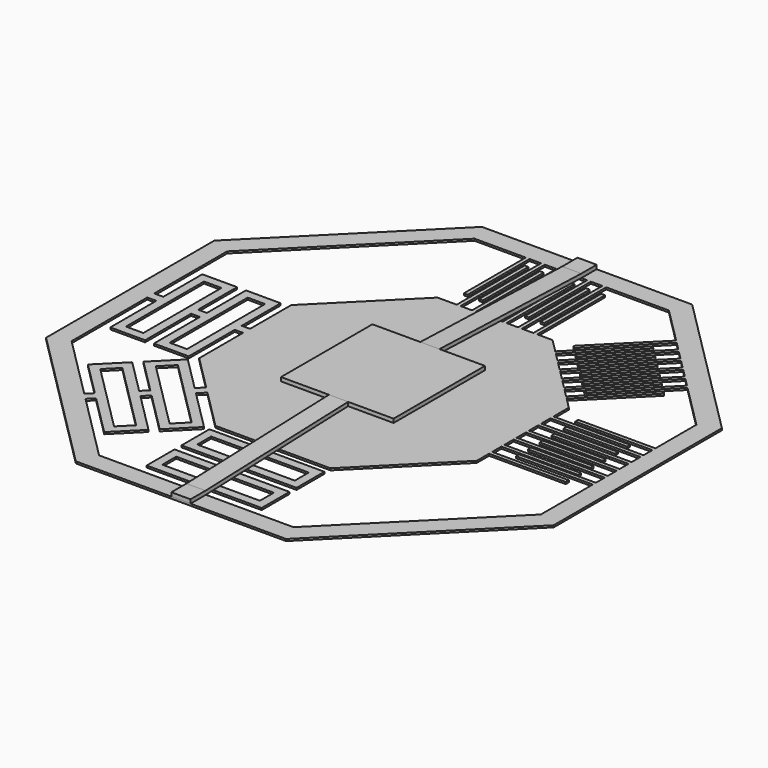
from build123d import *

# Parameters (mm, degrees)
F0_W     = 50.92
F0_H     = 9.08
F0_W_2   = 9.08
F0_H_2   = 50.92
F0_W_3   = 2
F0_H_3   = 44.2473366857
F0_W_4   = 40
F0_H_4   = 2
F1_DEPTH = 1
F3_W     = 58.7374344468
F3_H     = 59.6037618816
F4_DEPTH = 2
F7_DEPTH = 5


with BuildPart() as f1:
    # F0 (on Top) → F1 (new body)
    with BuildSketch(Plane.XY):
        Polygon((-24.8528137424, 60), (-102.4264068712, -17.5735931288), (-102.4264068712, -127.2792206136), (-24.8528137424, -204.8528137424), (84.8528137424, -204.8528137424), (162.4264068712, -127.2792206136), (162.4264068712, -17.5735931288), (84.8528137424, 60), align=None)
        Polygon((-31.9146883142, -171.0922543166), (-67.9205656122, -135.0863770186), (-61.500036039, -128.6658474454), (-25.494158741, -164.6717247434), align=None, mode=Mode.SUBTRACT)
        with Locations((29.9999986589, -180.6385742855)):
            Rectangle(F0_W, F0_H, mode=Mode.SUBTRACT)
        Polygon((-20.840562519, -124.0122512234), (0, -144.8528137424), (25.4599986589, -144.8528137424), (25.4599986589, -148.7985742855), (-1.3411e-06, -148.7985742855), (-1.3411e-06, -166.9585742855), (25.4599986589, -166.9585742855), (25.4599986589, -171.5585742855), (-1.3411e-06, -171.5585742855), (-1.3411e-06, -189.7185742855), (25.4599986589, -189.7185742855), (25.4599986589, -194.8528137424), (-20.7106781187, -194.8528137424), (-56.1959015783, -159.3675902827), (-53.1278917498, -156.2995804542), (-31.9146883142, -177.5127838898), (-19.0736291679, -164.6717247434), (-40.2868326034, -143.4585213078), (-37.03414141, -140.2058301144), (-15.8209379744, -161.41903355), (-2.979878828, -148.5779744036), (-24.1930822636, -127.364770968), align=None, mode=Mode.SUBTRACT)
        with Locations((29.9999986589, -157.8785742855)):
            Rectangle(F0_W, F0_H, mode=Mode.SUBTRACT)
        Polygon((-42.4264068712, -73.8146522333), (-42.4264068712, -102.4264068712), (-24.0508273056, -120.8019864368), (-27.4033470502, -124.1545061814), (-45.4062856992, -106.1515675324), (-58.2473448456, -118.9926266788), (-40.2444061966, -136.9955653278), (-43.49709739, -140.2482565212), (-61.500036039, -122.2453178722), (-74.3410951854, -135.0863770186), (-56.3381565364, -153.0893156676), (-59.4061663649, -156.1573254961), (-92.4264068712, -123.1370849898), (-92.4264068712, -73.8146522333), (-87.6930356026, -73.8146522333), (-87.6930356026, -103.8146522333), (-69.5330356026, -103.8146522333), (-69.5330356026, -73.8146522333), (-64.9330356026, -73.8146522333), (-64.9330356026, -103.8146522333), (-46.7730356026, -103.8146522333), (-46.7730356026, -73.8146522333), align=None, mode=Mode.SUBTRACT)
        with Locations((-78.6130356026, -73.8146522333)):
            Rectangle(F0_W_2, F0_H_2, mode=Mode.SUBTRACT)
        with Locations((-55.8530356026, -73.8146522333)):
            Rectangle(F0_W_2, F0_H_2, mode=Mode.SUBTRACT)
        Polygon((-15.8209379744, -154.9985039768), (-51.8268152724, -118.9926266788), (-45.4062856992, -112.5720971056), (-9.4004084012, -148.5779744036), align=None, mode=Mode.SUBTRACT)
        Polygon((10, 0), (0, 0), (-42.4264068712, -42.4264068712), (-42.4264068712, -69.2746522333), (-46.7730356026, -69.2746522333), (-46.7730356026, -43.8146522333), (-64.9330356026, -43.8146522333), (-64.9330356026, -69.2746522333), (-69.5330356026, -69.2746522333), (-69.5330356026, -43.8146522333), (-87.6930356026, -43.8146522333), (-87.6930356026, -69.2746522333), (-92.4264068712, -69.2746522333), (-92.4264068712, -21.7157287525), (-20.7106781187, 50), (5.9993218813, 50), (5.9993218813, 9.6363211051), (7.9993218813, 9.6363211051), (7.9993218813, 50), (13.9993218813, 50), (13.9993218813, 9.6363211051), (15.9993218813, 9.6363211051), (15.9993218813, 50), (21.9993218813, 50), (21.9993218813, 9.6363211051), (23.9993218813, 9.6363211051), (23.9993218813, 50), (29.9993218813, 50), (29.9993218813, 9.6363211051), (31.9993218813, 9.6363211051), (31.9993218813, 50), (37.9993218813, 50), (37.9993218813, 9.6363211051), (39.9993218813, 9.6363211051), (39.9993218813, 50), (45.9993218813, 50), (45.9993218813, 9.6363211051), (47.9993218813, 9.6363211051), (47.9993218813, 50), (80.7106781187, 50), (99.5975002441, 31.1131778745), (69.7888104322, 1.3044880626), (71.2030239946, -0.1097254998), (101.0117138065, 29.6989643121), (105.2543537202, 25.4563243984), (75.4486219597, -4.3494073621), (76.8628355221, -5.7636209245), (106.6685672826, 24.042110836), (110.9112071963, 19.7994709223), (81.1084334872, -10.0033027868), (82.5226470495, -11.4175163492), (112.3254207587, 18.38525736), (116.5680606724, 14.1426174462), (86.7682450146, -15.6571982115), (88.182458577, -17.0714117739), (117.9822742348, 12.7284038839), (122.2249141485, 8.4857639702), (92.4280565421, -21.3110936362), (93.8422701045, -22.7253071986), (123.6391277109, 7.0715504078), (127.8817676246, 2.8289104941), (98.0878680696, -26.964989061), (99.5020816319, -28.3792026233), (129.295981187, 1.4146969317), (152.4264068712, -21.7157287525), (152.4264068712, -48.4257287525), (112.1561676264, -48.4257287525), (112.1561676264, -50.4257287525), (152.4264068712, -50.4257287525), (152.4264068712, -56.2), (112.2, -56.2), (112.2, -58.2), (152.4264068712, -58.2), (152.4264068712, -63.9742712475), (112.2438323736, -63.9742712475), (112.2438323736, -65.9742712475), (152.4264068712, -65.9742712475), (152.4264068712, -71.7485424949), (112.2876647472, -71.7485424949), (112.2876647472, -73.7485424949), (152.4264068712, -73.7485424949), (152.4264068712, -79.5228137424), (112.3314971209, -79.5228137424), (112.3314971209, -81.5228137424), (152.4264068712, -81.5228137424), (152.4264068712, -87.2970849898), (112.3753294945, -87.2970849898), (112.3753294945, -89.2970849898), (152.4264068712, -89.2970849898), (152.4264068712, -123.1370849898), (80.7106781187, -194.8528137424), (30, -194.8528137424), (29.9999986589, -189.7185742855), (59.9999986589, -189.7185742855), (59.9999986589, -171.5585742855), (29.9999986589, -171.5585742855), (29.9999986589, -166.9585742855), (59.9999986589, -166.9585742855), (59.9999986589, -148.7985742855), (29.9999986589, -148.7985742855), (30, -144.8528137424), (60, -144.8528137424), (102.4264068712, -102.4264068712), (102.4264068712, -94.4264068712), (142.4264068712, -94.4264068712), (142.4264068712, -92.4264068712), (102.4264068712, -92.4264068712), (102.4264068712, -86.4264068712), (142.4264068712, -86.4264068712), (142.4264068712, -84.4264068712), (102.4264068712, -84.4264068712), (102.4264068712, -78.4264068712), (142.4264068712, -78.4264068712), (142.4264068712, -76.4264068712), (102.4264068712, -76.4264068712), (102.4264068712, -70.4264068712), (102.4264068712, -68.4264068712), (102.4264068712, -62.4264068712), (142.4264068712, -62.4264068712), (142.4264068712, -60.4264068712), (102.4264068712, -60.4264068712), (102.4264068712, -54.4264068712), (142.4264068712, -54.4264068712), (142.4264068712, -52.4264068712), (102.4264068712, -52.4264068712), (102.4264068712, -42.4264068712), (96.7695526217, -36.7695526217), (95.3553390593, -35.3553390593), (91.1126983722, -31.1126983722), (89.6984848098, -29.6984848098), (85.4558441227, -25.4558441227), (84.0416305603, -24.0416305603), (79.7989898732, -19.7989898732), (78.3847763109, -18.3847763109), (74.1421356237, -14.1421356237), (72.7279220614, -12.7279220614), (68.4852813742, -8.4852813742), (67.0710678119, -7.0710678119), (60, 0), (52, 0), (50, 0), (44, 0), (42, 0), (36, 0), (34, 0), (28, 0), (26, 0), (20, 0), (18, 0), (12, 0), align=None, mode=Mode.SUBTRACT)
        Polygon((-24.8528137424, 60), (-102.4264068712, -17.5735931288), (-102.4264068712, -127.2792206136), (-24.8528137424, -204.8528137424), (84.8528137424, -204.8528137424), (162.4264068712, -127.2792206136), (162.4264068712, -17.5735931288), (84.8528137424, 60), align=None)
        Polygon((-31.9146883142, -171.0922543166), (-67.9205656122, -135.0863770186), (-61.500036039, -128.6658474454), (-25.494158741, -164.6717247434), align=None, mode=Mode.SUBTRACT)
        with Locations((29.9999986589, -180.6385742855)):
            Rectangle(F0_W, F0_H, mode=Mode.SUBTRACT)
        Polygon((-20.840562519, -124.0122512234), (0, -144.8528137424), (25.4599986589, -144.8528137424), (25.4599986589, -148.7985742855), (-1.3411e-06, -148.7985742855), (-1.3411e-06, -166.9585742855), (25.4599986589, -166.9585742855), (25.4599986589, -171.5585742855), (-1.3411e-06, -171.5585742855), (-1.3411e-06, -189.7185742855), (25.4599986589, -189.7185742855), (25.4599986589, -194.8528137424), (-20.7106781187, -194.8528137424), (-56.1959015783, -159.3675902827), (-53.1278917498, -156.2995804542), (-31.9146883142, -177.5127838898), (-19.0736291679, -164.6717247434), (-40.2868326034, -143.4585213078), (-37.03414141, -140.2058301144), (-15.8209379744, -161.41903355), (-2.979878828, -148.5779744036), (-24.1930822636, -127.364770968), align=None, mode=Mode.SUBTRACT)
        with Locations((29.9999986589, -157.8785742855)):
            Rectangle(F0_W, F0_H, mode=Mode.SUBTRACT)
        Polygon((-42.4264068712, -73.8146522333), (-42.4264068712, -102.4264068712), (-24.0508273056, -120.8019864368), (-27.4033470502, -124.1545061814), (-45.4062856992, -106.1515675324), (-58.2473448456, -118.9926266788), (-40.2444061966, -136.9955653278), (-43.49709739, -140.2482565212), (-61.500036039, -122.2453178722), (-74.3410951854, -135.0863770186), (-56.3381565364, -153.0893156676), (-59.4061663649, -156.1573254961), (-92.4264068712, -123.1370849898), (-92.4264068712, -73.8146522333), (-87.6930356026, -73.8146522333), (-87.6930356026, -103.8146522333), (-69.5330356026, -103.8146522333), (-69.5330356026, -73.8146522333), (-64.9330356026, -73.8146522333), (-64.9330356026, -103.8146522333), (-46.7730356026, -103.8146522333), (-46.7730356026, -73.8146522333), align=None, mode=Mode.SUBTRACT)
        with Locations((-78.6130356026, -73.8146522333)):
            Rectangle(F0_W_2, F0_H_2, mode=Mode.SUBTRACT)
        with Locations((-55.8530356026, -73.8146522333)):
            Rectangle(F0_W_2, F0_H_2, mode=Mode.SUBTRACT)
        Polygon((-15.8209379744, -154.9985039768), (-51.8268152724, -118.9926266788), (-45.4062856992, -112.5720971056), (-9.4004084012, -148.5779744036), align=None, mode=Mode.SUBTRACT)
        Polygon((10, 0), (0, 0), (-42.4264068712, -42.4264068712), (-42.4264068712, -69.2746522333), (-46.7730356026, -69.2746522333), (-46.7730356026, -43.8146522333), (-64.9330356026, -43.8146522333), (-64.9330356026, -69.2746522333), (-69.5330356026, -69.2746522333), (-69.5330356026, -43.8146522333), (-87.6930356026, -43.8146522333), (-87.6930356026, -69.2746522333), (-92.4264068712, -69.2746522333), (-92.4264068712, -21.7157287525), (-20.7106781187, 50), (5.9993218813, 50), (5.9993218813, 9.6363211051), (7.9993218813, 9.6363211051), (7.9993218813, 50), (13.9993218813, 50), (13.9993218813, 9.6363211051), (15.9993218813, 9.6363211051), (15.9993218813, 50), (21.9993218813, 50), (21.9993218813, 9.6363211051), (23.9993218813, 9.6363211051), (23.9993218813, 50), (29.9993218813, 50), (29.9993218813, 9.6363211051), (31.9993218813, 9.6363211051), (31.9993218813, 50), (37.9993218813, 50), (37.9993218813, 9.6363211051), (39.9993218813, 9.6363211051), (39.9993218813, 50), (45.9993218813, 50), (45.9993218813, 9.6363211051), (47.9993218813, 9.6363211051), (47.9993218813, 50), (80.7106781187, 50), (99.5975002441, 31.1131778745), (69.7888104322, 1.3044880626), (71.2030239946, -0.1097254998), (101.0117138065, 29.6989643121), (105.2543537202, 25.4563243984), (75.4486219597, -4.3494073621), (76.8628355221, -5.7636209245), (106.6685672826, 24.042110836), (110.9112071963, 19.7994709223), (81.1084334872, -10.0033027868), (82.5226470495, -11.4175163492), (112.3254207587, 18.38525736), (116.5680606724, 14.1426174462), (86.7682450146, -15.6571982115), (88.182458577, -17.0714117739), (117.9822742348, 12.7284038839), (122.2249141485, 8.4857639702), (92.4280565421, -21.3110936362), (93.8422701045, -22.7253071986), (123.6391277109, 7.0715504078), (127.8817676246, 2.8289104941), (98.0878680696, -26.964989061), (99.5020816319, -28.3792026233), (129.295981187, 1.4146969317), (152.4264068712, -21.7157287525), (152.4264068712, -48.4257287525), (112.1561676264, -48.4257287525), (112.1561676264, -50.4257287525), (152.4264068712, -50.4257287525), (152.4264068712, -56.2), (112.2, -56.2), (112.2, -58.2), (152.4264068712, -58.2), (152.4264068712, -63.9742712475), (112.2438323736, -63.9742712475), (112.2438323736, -65.9742712475), (152.4264068712, -65.9742712475), (152.4264068712, -71.7485424949), (112.2876647472, -71.7485424949), (112.2876647472, -73.7485424949), (152.4264068712, -73.7485424949), (152.4264068712, -79.5228137424), (112.3314971209, -79.5228137424), (112.3314971209, -81.5228137424), (152.4264068712, -81.5228137424), (152.4264068712, -87.2970849898), (112.3753294945, -87.2970849898), (112.3753294945, -89.2970849898), (152.4264068712, -89.2970849898), (152.4264068712, -123.1370849898), (80.7106781187, -194.8528137424), (30, -194.8528137424), (29.9999986589, -189.7185742855), (59.9999986589, -189.7185742855), (59.9999986589, -171.5585742855), (29.9999986589, -171.5585742855), (29.9999986589, -166.9585742855), (59.9999986589, -166.9585742855), (59.9999986589, -148.7985742855), (29.9999986589, -148.7985742855), (30, -144.8528137424), (60, -144.8528137424), (102.4264068712, -102.4264068712), (102.4264068712, -94.4264068712), (142.4264068712, -94.4264068712), (142.4264068712, -92.4264068712), (102.4264068712, -92.4264068712), (102.4264068712, -86.4264068712), (142.4264068712, -86.4264068712), (142.4264068712, -84.4264068712), (102.4264068712, -84.4264068712), (102.4264068712, -78.4264068712), (142.4264068712, -78.4264068712), (142.4264068712, -76.4264068712), (102.4264068712, -76.4264068712), (102.4264068712, -70.4264068712), (102.4264068712, -68.4264068712), (102.4264068712, -62.4264068712), (142.4264068712, -62.4264068712), (142.4264068712, -60.4264068712), (102.4264068712, -60.4264068712), (102.4264068712, -54.4264068712), (142.4264068712, -54.4264068712), (142.4264068712, -52.4264068712), (102.4264068712, -52.4264068712), (102.4264068712, -42.4264068712), (96.7695526217, -36.7695526217), (95.3553390593, -35.3553390593), (91.1126983722, -31.1126983722), (89.6984848098, -29.6984848098), (85.4558441227, -25.4558441227), (84.0416305603, -24.0416305603), (79.7989898732, -19.7989898732), (78.3847763109, -18.3847763109), (74.1421356237, -14.1421356237), (72.7279220614, -12.7279220614), (68.4852813742, -8.4852813742), (67.0710678119, -7.0710678119), (60, 0), (52, 0), (50, 0), (44, 0), (42, 0), (36, 0), (34, 0), (28, 0), (26, 0), (20, 0), (18, 0), (12, 0), align=None, mode=Mode.SUBTRACT)
        Polygon((-24.8528137424, 60), (-102.4264068712, -17.5735931288), (-102.4264068712, -127.2792206136), (-24.8528137424, -204.8528137424), (84.8528137424, -204.8528137424), (162.4264068712, -127.2792206136), (162.4264068712, -17.5735931288), (84.8528137424, 60), align=None)
        Polygon((-31.9146883142, -171.0922543166), (-67.9205656122, -135.0863770186), (-61.500036039, -128.6658474454), (-25.494158741, -164.6717247434), align=None, mode=Mode.SUBTRACT)
        with Locations((29.9999986589, -180.6385742855)):
            Rectangle(F0_W, F0_H, mode=Mode.SUBTRACT)
        Polygon((-20.840562519, -124.0122512234), (0, -144.8528137424), (25.4599986589, -144.8528137424), (25.4599986589, -148.7985742855), (-1.3411e-06, -148.7985742855), (-1.3411e-06, -166.9585742855), (25.4599986589, -166.9585742855), (25.4599986589, -171.5585742855), (-1.3411e-06, -171.5585742855), (-1.3411e-06, -189.7185742855), (25.4599986589, -189.7185742855), (25.4599986589, -194.8528137424), (-20.7106781187, -194.8528137424), (-56.1959015783, -159.3675902827), (-53.1278917498, -156.2995804542), (-31.9146883142, -177.5127838898), (-19.0736291679, -164.6717247434), (-40.2868326034, -143.4585213078), (-37.03414141, -140.2058301144), (-15.8209379744, -161.41903355), (-2.979878828, -148.5779744036), (-24.1930822636, -127.364770968), align=None, mode=Mode.SUBTRACT)
        with Locations((29.9999986589, -157.8785742855)):
            Rectangle(F0_W, F0_H, mode=Mode.SUBTRACT)
        Polygon((-42.4264068712, -73.8146522333), (-42.4264068712, -102.4264068712), (-24.0508273056, -120.8019864368), (-27.4033470502, -124.1545061814), (-45.4062856992, -106.1515675324), (-58.2473448456, -118.9926266788), (-40.2444061966, -136.9955653278), (-43.49709739, -140.2482565212), (-61.500036039, -122.2453178722), (-74.3410951854, -135.0863770186), (-56.3381565364, -153.0893156676), (-59.4061663649, -156.1573254961), (-92.4264068712, -123.1370849898), (-92.4264068712, -73.8146522333), (-87.6930356026, -73.8146522333), (-87.6930356026, -103.8146522333), (-69.5330356026, -103.8146522333), (-69.5330356026, -73.8146522333), (-64.9330356026, -73.8146522333), (-64.9330356026, -103.8146522333), (-46.7730356026, -103.8146522333), (-46.7730356026, -73.8146522333), align=None, mode=Mode.SUBTRACT)
        with Locations((-78.6130356026, -73.8146522333)):
            Rectangle(F0_W_2, F0_H_2, mode=Mode.SUBTRACT)
        with Locations((-55.8530356026, -73.8146522333)):
            Rectangle(F0_W_2, F0_H_2, mode=Mode.SUBTRACT)
        Polygon((-15.8209379744, -154.9985039768), (-51.8268152724, -118.9926266788), (-45.4062856992, -112.5720971056), (-9.4004084012, -148.5779744036), align=None, mode=Mode.SUBTRACT)
        Polygon((10, 0), (0, 0), (-42.4264068712, -42.4264068712), (-42.4264068712, -69.2746522333), (-46.7730356026, -69.2746522333), (-46.7730356026, -43.8146522333), (-64.9330356026, -43.8146522333), (-64.9330356026, -69.2746522333), (-69.5330356026, -69.2746522333), (-69.5330356026, -43.8146522333), (-87.6930356026, -43.8146522333), (-87.6930356026, -69.2746522333), (-92.4264068712, -69.2746522333), (-92.4264068712, -21.7157287525), (-20.7106781187, 50), (5.9993218813, 50), (5.9993218813, 9.6363211051), (7.9993218813, 9.6363211051), (7.9993218813, 50), (13.9993218813, 50), (13.9993218813, 9.6363211051), (15.9993218813, 9.6363211051), (15.9993218813, 50), (21.9993218813, 50), (21.9993218813, 9.6363211051), (23.9993218813, 9.6363211051), (23.9993218813, 50), (29.9993218813, 50), (29.9993218813, 9.6363211051), (31.9993218813, 9.6363211051), (31.9993218813, 50), (37.9993218813, 50), (37.9993218813, 9.6363211051), (39.9993218813, 9.6363211051), (39.9993218813, 50), (45.9993218813, 50), (45.9993218813, 9.6363211051), (47.9993218813, 9.6363211051), (47.9993218813, 50), (80.7106781187, 50), (99.5975002441, 31.1131778745), (69.7888104322, 1.3044880626), (71.2030239946, -0.1097254998), (101.0117138065, 29.6989643121), (105.2543537202, 25.4563243984), (75.4486219597, -4.3494073621), (76.8628355221, -5.7636209245), (106.6685672826, 24.042110836), (110.9112071963, 19.7994709223), (81.1084334872, -10.0033027868), (82.5226470495, -11.4175163492), (112.3254207587, 18.38525736), (116.5680606724, 14.1426174462), (86.7682450146, -15.6571982115), (88.182458577, -17.0714117739), (117.9822742348, 12.7284038839), (122.2249141485, 8.4857639702), (92.4280565421, -21.3110936362), (93.8422701045, -22.7253071986), (123.6391277109, 7.0715504078), (127.8817676246, 2.8289104941), (98.0878680696, -26.964989061), (99.5020816319, -28.3792026233), (129.295981187, 1.4146969317), (152.4264068712, -21.7157287525), (152.4264068712, -48.4257287525), (112.1561676264, -48.4257287525), (112.1561676264, -50.4257287525), (152.4264068712, -50.4257287525), (152.4264068712, -56.2), (112.2, -56.2), (112.2, -58.2), (152.4264068712, -58.2), (152.4264068712, -63.9742712475), (112.2438323736, -63.9742712475), (112.2438323736, -65.9742712475), (152.4264068712, -65.9742712475), (152.4264068712, -71.7485424949), (112.2876647472, -71.7485424949), (112.2876647472, -73.7485424949), (152.4264068712, -73.7485424949), (152.4264068712, -79.5228137424), (112.3314971209, -79.5228137424), (112.3314971209, -81.5228137424), (152.4264068712, -81.5228137424), (152.4264068712, -87.2970849898), (112.3753294945, -87.2970849898), (112.3753294945, -89.2970849898), (152.4264068712, -89.2970849898), (152.4264068712, -123.1370849898), (80.7106781187, -194.8528137424), (30, -194.8528137424), (29.9999986589, -189.7185742855), (59.9999986589, -189.7185742855), (59.9999986589, -171.5585742855), (29.9999986589, -171.5585742855), (29.9999986589, -166.9585742855), (59.9999986589, -166.9585742855), (59.9999986589, -148.7985742855), (29.9999986589, -148.7985742855), (30, -144.8528137424), (60, -144.8528137424), (102.4264068712, -102.4264068712), (102.4264068712, -94.4264068712), (142.4264068712, -94.4264068712), (142.4264068712, -92.4264068712), (102.4264068712, -92.4264068712), (102.4264068712, -86.4264068712), (142.4264068712, -86.4264068712), (142.4264068712, -84.4264068712), (102.4264068712, -84.4264068712), (102.4264068712, -78.4264068712), (142.4264068712, -78.4264068712), (142.4264068712, -76.4264068712), (102.4264068712, -76.4264068712), (102.4264068712, -70.4264068712), (102.4264068712, -68.4264068712), (102.4264068712, -62.4264068712), (142.4264068712, -62.4264068712), (142.4264068712, -60.4264068712), (102.4264068712, -60.4264068712), (102.4264068712, -54.4264068712), (142.4264068712, -54.4264068712), (142.4264068712, -52.4264068712), (102.4264068712, -52.4264068712), (102.4264068712, -42.4264068712), (96.7695526217, -36.7695526217), (95.3553390593, -35.3553390593), (91.1126983722, -31.1126983722), (89.6984848098, -29.6984848098), (85.4558441227, -25.4558441227), (84.0416305603, -24.0416305603), (79.7989898732, -19.7989898732), (78.3847763109, -18.3847763109), (74.1421356237, -14.1421356237), (72.7279220614, -12.7279220614), (68.4852813742, -8.4852813742), (67.0710678119, -7.0710678119), (60, 0), (52, 0), (50, 0), (44, 0), (42, 0), (36, 0), (34, 0), (28, 0), (26, 0), (20, 0), (18, 0), (12, 0), align=None, mode=Mode.SUBTRACT)
        Polygon((-24.8528137424, 60), (-102.4264068712, -17.5735931288), (-102.4264068712, -127.2792206136), (-24.8528137424, -204.8528137424), (84.8528137424, -204.8528137424), (162.4264068712, -127.2792206136), (162.4264068712, -17.5735931288), (84.8528137424, 60), align=None)
        Polygon((-31.9146883142, -171.0922543166), (-67.9205656122, -135.0863770186), (-61.500036039, -128.6658474454), (-25.494158741, -164.6717247434), align=None, mode=Mode.SUBTRACT)
        with Locations((29.9999986589, -180.6385742855)):
            Rectangle(F0_W, F0_H, mode=Mode.SUBTRACT)
        Polygon((-20.840562519, -124.0122512234), (0, -144.8528137424), (25.4599986589, -144.8528137424), (25.4599986589, -148.7985742855), (-1.3411e-06, -148.7985742855), (-1.3411e-06, -166.9585742855), (25.4599986589, -166.9585742855), (25.4599986589, -171.5585742855), (-1.3411e-06, -171.5585742855), (-1.3411e-06, -189.7185742855), (25.4599986589, -189.7185742855), (25.4599986589, -194.8528137424), (-20.7106781187, -194.8528137424), (-56.1959015783, -159.3675902827), (-53.1278917498, -156.2995804542), (-31.9146883142, -177.5127838898), (-19.0736291679, -164.6717247434), (-40.2868326034, -143.4585213078), (-37.03414141, -140.2058301144), (-15.8209379744, -161.41903355), (-2.979878828, -148.5779744036), (-24.1930822636, -127.364770968), align=None, mode=Mode.SUBTRACT)
        with Locations((29.9999986589, -157.8785742855)):
            Rectangle(F0_W, F0_H, mode=Mode.SUBTRACT)
        Polygon((-42.4264068712, -73.8146522333), (-42.4264068712, -102.4264068712), (-24.0508273056, -120.8019864368), (-27.4033470502, -124.1545061814), (-45.4062856992, -106.1515675324), (-58.2473448456, -118.9926266788), (-40.2444061966, -136.9955653278), (-43.49709739, -140.2482565212), (-61.500036039, -122.2453178722), (-74.3410951854, -135.0863770186), (-56.3381565364, -153.0893156676), (-59.4061663649, -156.1573254961), (-92.4264068712, -123.1370849898), (-92.4264068712, -73.8146522333), (-87.6930356026, -73.8146522333), (-87.6930356026, -103.8146522333), (-69.5330356026, -103.8146522333), (-69.5330356026, -73.8146522333), (-64.9330356026, -73.8146522333), (-64.9330356026, -103.8146522333), (-46.7730356026, -103.8146522333), (-46.7730356026, -73.8146522333), align=None, mode=Mode.SUBTRACT)
        with Locations((-78.6130356026, -73.8146522333)):
            Rectangle(F0_W_2, F0_H_2, mode=Mode.SUBTRACT)
        with Locations((-55.8530356026, -73.8146522333)):
            Rectangle(F0_W_2, F0_H_2, mode=Mode.SUBTRACT)
        Polygon((-15.8209379744, -154.9985039768), (-51.8268152724, -118.9926266788), (-45.4062856992, -112.5720971056), (-9.4004084012, -148.5779744036), align=None, mode=Mode.SUBTRACT)
        Polygon((10, 0), (0, 0), (-42.4264068712, -42.4264068712), (-42.4264068712, -69.2746522333), (-46.7730356026, -69.2746522333), (-46.7730356026, -43.8146522333), (-64.9330356026, -43.8146522333), (-64.9330356026, -69.2746522333), (-69.5330356026, -69.2746522333), (-69.5330356026, -43.8146522333), (-87.6930356026, -43.8146522333), (-87.6930356026, -69.2746522333), (-92.4264068712, -69.2746522333), (-92.4264068712, -21.7157287525), (-20.7106781187, 50), (5.9993218813, 50), (5.9993218813, 9.6363211051), (7.9993218813, 9.6363211051), (7.9993218813, 50), (13.9993218813, 50), (13.9993218813, 9.6363211051), (15.9993218813, 9.6363211051), (15.9993218813, 50), (21.9993218813, 50), (21.9993218813, 9.6363211051), (23.9993218813, 9.6363211051), (23.9993218813, 50), (29.9993218813, 50), (29.9993218813, 9.6363211051), (31.9993218813, 9.6363211051), (31.9993218813, 50), (37.9993218813, 50), (37.9993218813, 9.6363211051), (39.9993218813, 9.6363211051), (39.9993218813, 50), (45.9993218813, 50), (45.9993218813, 9.6363211051), (47.9993218813, 9.6363211051), (47.9993218813, 50), (80.7106781187, 50), (99.5975002441, 31.1131778745), (69.7888104322, 1.3044880626), (71.2030239946, -0.1097254998), (101.0117138065, 29.6989643121), (105.2543537202, 25.4563243984), (75.4486219597, -4.3494073621), (76.8628355221, -5.7636209245), (106.6685672826, 24.042110836), (110.9112071963, 19.7994709223), (81.1084334872, -10.0033027868), (82.5226470495, -11.4175163492), (112.3254207587, 18.38525736), (116.5680606724, 14.1426174462), (86.7682450146, -15.6571982115), (88.182458577, -17.0714117739), (117.9822742348, 12.7284038839), (122.2249141485, 8.4857639702), (92.4280565421, -21.3110936362), (93.8422701045, -22.7253071986), (123.6391277109, 7.0715504078), (127.8817676246, 2.8289104941), (98.0878680696, -26.964989061), (99.5020816319, -28.3792026233), (129.295981187, 1.4146969317), (152.4264068712, -21.7157287525), (152.4264068712, -48.4257287525), (112.1561676264, -48.4257287525), (112.1561676264, -50.4257287525), (152.4264068712, -50.4257287525), (152.4264068712, -56.2), (112.2, -56.2), (112.2, -58.2), (152.4264068712, -58.2), (152.4264068712, -63.9742712475), (112.2438323736, -63.9742712475), (112.2438323736, -65.9742712475), (152.4264068712, -65.9742712475), (152.4264068712, -71.7485424949), (112.2876647472, -71.7485424949), (112.2876647472, -73.7485424949), (152.4264068712, -73.7485424949), (152.4264068712, -79.5228137424), (112.3314971209, -79.5228137424), (112.3314971209, -81.5228137424), (152.4264068712, -81.5228137424), (152.4264068712, -87.2970849898), (112.3753294945, -87.2970849898), (112.3753294945, -89.2970849898), (152.4264068712, -89.2970849898), (152.4264068712, -123.1370849898), (80.7106781187, -194.8528137424), (30, -194.8528137424), (29.9999986589, -189.7185742855), (59.9999986589, -189.7185742855), (59.9999986589, -171.5585742855), (29.9999986589, -171.5585742855), (29.9999986589, -166.9585742855), (59.9999986589, -166.9585742855), (59.9999986589, -148.7985742855), (29.9999986589, -148.7985742855), (30, -144.8528137424), (60, -144.8528137424), (102.4264068712, -102.4264068712), (102.4264068712, -94.4264068712), (142.4264068712, -94.4264068712), (142.4264068712, -92.4264068712), (102.4264068712, -92.4264068712), (102.4264068712, -86.4264068712), (142.4264068712, -86.4264068712), (142.4264068712, -84.4264068712), (102.4264068712, -84.4264068712), (102.4264068712, -78.4264068712), (142.4264068712, -78.4264068712), (142.4264068712, -76.4264068712), (102.4264068712, -76.4264068712), (102.4264068712, -70.4264068712), (102.4264068712, -68.4264068712), (102.4264068712, -62.4264068712), (142.4264068712, -62.4264068712), (142.4264068712, -60.4264068712), (102.4264068712, -60.4264068712), (102.4264068712, -54.4264068712), (142.4264068712, -54.4264068712), (142.4264068712, -52.4264068712), (102.4264068712, -52.4264068712), (102.4264068712, -42.4264068712), (96.7695526217, -36.7695526217), (95.3553390593, -35.3553390593), (91.1126983722, -31.1126983722), (89.6984848098, -29.6984848098), (85.4558441227, -25.4558441227), (84.0416305603, -24.0416305603), (79.7989898732, -19.7989898732), (78.3847763109, -18.3847763109), (74.1421356237, -14.1421356237), (72.7279220614, -12.7279220614), (68.4852813742, -8.4852813742), (67.0710678119, -7.0710678119), (60, 0), (52, 0), (50, 0), (44, 0), (42, 0), (36, 0), (34, 0), (28, 0), (26, 0), (20, 0), (18, 0), (12, 0), align=None, mode=Mode.SUBTRACT)
        Polygon((-24.8528137424, 60), (-102.4264068712, -17.5735931288), (-102.4264068712, -127.2792206136), (-24.8528137424, -204.8528137424), (84.8528137424, -204.8528137424), (162.4264068712, -127.2792206136), (162.4264068712, -17.5735931288), (84.8528137424, 60), align=None)
        Polygon((-31.9146883142, -171.0922543166), (-67.9205656122, -135.0863770186), (-61.500036039, -128.6658474454), (-25.494158741, -164.6717247434), align=None, mode=Mode.SUBTRACT)
        with Locations((29.9999986589, -180.6385742855)):
            Rectangle(F0_W, F0_H, mode=Mode.SUBTRACT)
        Polygon((-20.840562519, -124.0122512234), (0, -144.8528137424), (25.4599986589, -144.8528137424), (25.4599986589, -148.7985742855), (-1.3411e-06, -148.7985742855), (-1.3411e-06, -166.9585742855), (25.4599986589, -166.9585742855), (25.4599986589, -171.5585742855), (-1.3411e-06, -171.5585742855), (-1.3411e-06, -189.7185742855), (25.4599986589, -189.7185742855), (25.4599986589, -194.8528137424), (-20.7106781187, -194.8528137424), (-56.1959015783, -159.3675902827), (-53.1278917498, -156.2995804542), (-31.9146883142, -177.5127838898), (-19.0736291679, -164.6717247434), (-40.2868326034, -143.4585213078), (-37.03414141, -140.2058301144), (-15.8209379744, -161.41903355), (-2.979878828, -148.5779744036), (-24.1930822636, -127.364770968), align=None, mode=Mode.SUBTRACT)
        with Locations((29.9999986589, -157.8785742855)):
            Rectangle(F0_W, F0_H, mode=Mode.SUBTRACT)
        Polygon((-42.4264068712, -73.8146522333), (-42.4264068712, -102.4264068712), (-24.0508273056, -120.8019864368), (-27.4033470502, -124.1545061814), (-45.4062856992, -106.1515675324), (-58.2473448456, -118.9926266788), (-40.2444061966, -136.9955653278), (-43.49709739, -140.2482565212), (-61.500036039, -122.2453178722), (-74.3410951854, -135.0863770186), (-56.3381565364, -153.0893156676), (-59.4061663649, -156.1573254961), (-92.4264068712, -123.1370849898), (-92.4264068712, -73.8146522333), (-87.6930356026, -73.8146522333), (-87.6930356026, -103.8146522333), (-69.5330356026, -103.8146522333), (-69.5330356026, -73.8146522333), (-64.9330356026, -73.8146522333), (-64.9330356026, -103.8146522333), (-46.7730356026, -103.8146522333), (-46.7730356026, -73.8146522333), align=None, mode=Mode.SUBTRACT)
        with Locations((-78.6130356026, -73.8146522333)):
            Rectangle(F0_W_2, F0_H_2, mode=Mode.SUBTRACT)
        with Locations((-55.8530356026, -73.8146522333)):
            Rectangle(F0_W_2, F0_H_2, mode=Mode.SUBTRACT)
        Polygon((-15.8209379744, -154.9985039768), (-51.8268152724, -118.9926266788), (-45.4062856992, -112.5720971056), (-9.4004084012, -148.5779744036), align=None, mode=Mode.SUBTRACT)
        Polygon((10, 0), (0, 0), (-42.4264068712, -42.4264068712), (-42.4264068712, -69.2746522333), (-46.7730356026, -69.2746522333), (-46.7730356026, -43.8146522333), (-64.9330356026, -43.8146522333), (-64.9330356026, -69.2746522333), (-69.5330356026, -69.2746522333), (-69.5330356026, -43.8146522333), (-87.6930356026, -43.8146522333), (-87.6930356026, -69.2746522333), (-92.4264068712, -69.2746522333), (-92.4264068712, -21.7157287525), (-20.7106781187, 50), (5.9993218813, 50), (5.9993218813, 9.6363211051), (7.9993218813, 9.6363211051), (7.9993218813, 50), (13.9993218813, 50), (13.9993218813, 9.6363211051), (15.9993218813, 9.6363211051), (15.9993218813, 50), (21.9993218813, 50), (21.9993218813, 9.6363211051), (23.9993218813, 9.6363211051), (23.9993218813, 50), (29.9993218813, 50), (29.9993218813, 9.6363211051), (31.9993218813, 9.6363211051), (31.9993218813, 50), (37.9993218813, 50), (37.9993218813, 9.6363211051), (39.9993218813, 9.6363211051), (39.9993218813, 50), (45.9993218813, 50), (45.9993218813, 9.6363211051), (47.9993218813, 9.6363211051), (47.9993218813, 50), (80.7106781187, 50), (99.5975002441, 31.1131778745), (69.7888104322, 1.3044880626), (71.2030239946, -0.1097254998), (101.0117138065, 29.6989643121), (105.2543537202, 25.4563243984), (75.4486219597, -4.3494073621), (76.8628355221, -5.7636209245), (106.6685672826, 24.042110836), (110.9112071963, 19.7994709223), (81.1084334872, -10.0033027868), (82.5226470495, -11.4175163492), (112.3254207587, 18.38525736), (116.5680606724, 14.1426174462), (86.7682450146, -15.6571982115), (88.182458577, -17.0714117739), (117.9822742348, 12.7284038839), (122.2249141485, 8.4857639702), (92.4280565421, -21.3110936362), (93.8422701045, -22.7253071986), (123.6391277109, 7.0715504078), (127.8817676246, 2.8289104941), (98.0878680696, -26.964989061), (99.5020816319, -28.3792026233), (129.295981187, 1.4146969317), (152.4264068712, -21.7157287525), (152.4264068712, -48.4257287525), (112.1561676264, -48.4257287525), (112.1561676264, -50.4257287525), (152.4264068712, -50.4257287525), (152.4264068712, -56.2), (112.2, -56.2), (112.2, -58.2), (152.4264068712, -58.2), (152.4264068712, -63.9742712475), (112.2438323736, -63.9742712475), (112.2438323736, -65.9742712475), (152.4264068712, -65.9742712475), (152.4264068712, -71.7485424949), (112.2876647472, -71.7485424949), (112.2876647472, -73.7485424949), (152.4264068712, -73.7485424949), (152.4264068712, -79.5228137424), (112.3314971209, -79.5228137424), (112.3314971209, -81.5228137424), (152.4264068712, -81.5228137424), (152.4264068712, -87.2970849898), (112.3753294945, -87.2970849898), (112.3753294945, -89.2970849898), (152.4264068712, -89.2970849898), (152.4264068712, -123.1370849898), (80.7106781187, -194.8528137424), (30, -194.8528137424), (29.9999986589, -189.7185742855), (59.9999986589, -189.7185742855), (59.9999986589, -171.5585742855), (29.9999986589, -171.5585742855), (29.9999986589, -166.9585742855), (59.9999986589, -166.9585742855), (59.9999986589, -148.7985742855), (29.9999986589, -148.7985742855), (30, -144.8528137424), (60, -144.8528137424), (102.4264068712, -102.4264068712), (102.4264068712, -94.4264068712), (142.4264068712, -94.4264068712), (142.4264068712, -92.4264068712), (102.4264068712, -92.4264068712), (102.4264068712, -86.4264068712), (142.4264068712, -86.4264068712), (142.4264068712, -84.4264068712), (102.4264068712, -84.4264068712), (102.4264068712, -78.4264068712), (142.4264068712, -78.4264068712), (142.4264068712, -76.4264068712), (102.4264068712, -76.4264068712), (102.4264068712, -70.4264068712), (102.4264068712, -68.4264068712), (102.4264068712, -62.4264068712), (142.4264068712, -62.4264068712), (142.4264068712, -60.4264068712), (102.4264068712, -60.4264068712), (102.4264068712, -54.4264068712), (142.4264068712, -54.4264068712), (142.4264068712, -52.4264068712), (102.4264068712, -52.4264068712), (102.4264068712, -42.4264068712), (96.7695526217, -36.7695526217), (95.3553390593, -35.3553390593), (91.1126983722, -31.1126983722), (89.6984848098, -29.6984848098), (85.4558441227, -25.4558441227), (84.0416305603, -24.0416305603), (79.7989898732, -19.7989898732), (78.3847763109, -18.3847763109), (74.1421356237, -14.1421356237), (72.7279220614, -12.7279220614), (68.4852813742, -8.4852813742), (67.0710678119, -7.0710678119), (60, 0), (52, 0), (50, 0), (44, 0), (42, 0), (36, 0), (34, 0), (28, 0), (26, 0), (20, 0), (18, 0), (12, 0), align=None, mode=Mode.SUBTRACT)
        Polygon((-24.8528137424, 60), (-102.4264068712, -17.5735931288), (-102.4264068712, -127.2792206136), (-24.8528137424, -204.8528137424), (84.8528137424, -204.8528137424), (162.4264068712, -127.2792206136), (162.4264068712, -17.5735931288), (84.8528137424, 60), align=None)
        Polygon((-31.9146883142, -171.0922543166), (-67.9205656122, -135.0863770186), (-61.500036039, -128.6658474454), (-25.494158741, -164.6717247434), align=None, mode=Mode.SUBTRACT)
        with Locations((29.9999986589, -180.6385742855)):
            Rectangle(F0_W, F0_H, mode=Mode.SUBTRACT)
        Polygon((-20.840562519, -124.0122512234), (0, -144.8528137424), (25.4599986589, -144.8528137424), (25.4599986589, -148.7985742855), (-1.3411e-06, -148.7985742855), (-1.3411e-06, -166.9585742855), (25.4599986589, -166.9585742855), (25.4599986589, -171.5585742855), (-1.3411e-06, -171.5585742855), (-1.3411e-06, -189.7185742855), (25.4599986589, -189.7185742855), (25.4599986589, -194.8528137424), (-20.7106781187, -194.8528137424), (-56.1959015783, -159.3675902827), (-53.1278917498, -156.2995804542), (-31.9146883142, -177.5127838898), (-19.0736291679, -164.6717247434), (-40.2868326034, -143.4585213078), (-37.03414141, -140.2058301144), (-15.8209379744, -161.41903355), (-2.979878828, -148.5779744036), (-24.1930822636, -127.364770968), align=None, mode=Mode.SUBTRACT)
        with Locations((29.9999986589, -157.8785742855)):
            Rectangle(F0_W, F0_H, mode=Mode.SUBTRACT)
        Polygon((-42.4264068712, -73.8146522333), (-42.4264068712, -102.4264068712), (-24.0508273056, -120.8019864368), (-27.4033470502, -124.1545061814), (-45.4062856992, -106.1515675324), (-58.2473448456, -118.9926266788), (-40.2444061966, -136.9955653278), (-43.49709739, -140.2482565212), (-61.500036039, -122.2453178722), (-74.3410951854, -135.0863770186), (-56.3381565364, -153.0893156676), (-59.4061663649, -156.1573254961), (-92.4264068712, -123.1370849898), (-92.4264068712, -73.8146522333), (-87.6930356026, -73.8146522333), (-87.6930356026, -103.8146522333), (-69.5330356026, -103.8146522333), (-69.5330356026, -73.8146522333), (-64.9330356026, -73.8146522333), (-64.9330356026, -103.8146522333), (-46.7730356026, -103.8146522333), (-46.7730356026, -73.8146522333), align=None, mode=Mode.SUBTRACT)
        with Locations((-78.6130356026, -73.8146522333)):
            Rectangle(F0_W_2, F0_H_2, mode=Mode.SUBTRACT)
        with Locations((-55.8530356026, -73.8146522333)):
            Rectangle(F0_W_2, F0_H_2, mode=Mode.SUBTRACT)
        Polygon((-15.8209379744, -154.9985039768), (-51.8268152724, -118.9926266788), (-45.4062856992, -112.5720971056), (-9.4004084012, -148.5779744036), align=None, mode=Mode.SUBTRACT)
        Polygon((10, 0), (0, 0), (-42.4264068712, -42.4264068712), (-42.4264068712, -69.2746522333), (-46.7730356026, -69.2746522333), (-46.7730356026, -43.8146522333), (-64.9330356026, -43.8146522333), (-64.9330356026, -69.2746522333), (-69.5330356026, -69.2746522333), (-69.5330356026, -43.8146522333), (-87.6930356026, -43.8146522333), (-87.6930356026, -69.2746522333), (-92.4264068712, -69.2746522333), (-92.4264068712, -21.7157287525), (-20.7106781187, 50), (5.9993218813, 50), (5.9993218813, 9.6363211051), (7.9993218813, 9.6363211051), (7.9993218813, 50), (13.9993218813, 50), (13.9993218813, 9.6363211051), (15.9993218813, 9.6363211051), (15.9993218813, 50), (21.9993218813, 50), (21.9993218813, 9.6363211051), (23.9993218813, 9.6363211051), (23.9993218813, 50), (29.9993218813, 50), (29.9993218813, 9.6363211051), (31.9993218813, 9.6363211051), (31.9993218813, 50), (37.9993218813, 50), (37.9993218813, 9.6363211051), (39.9993218813, 9.6363211051), (39.9993218813, 50), (45.9993218813, 50), (45.9993218813, 9.6363211051), (47.9993218813, 9.6363211051), (47.9993218813, 50), (80.7106781187, 50), (99.5975002441, 31.1131778745), (69.7888104322, 1.3044880626), (71.2030239946, -0.1097254998), (101.0117138065, 29.6989643121), (105.2543537202, 25.4563243984), (75.4486219597, -4.3494073621), (76.8628355221, -5.7636209245), (106.6685672826, 24.042110836), (110.9112071963, 19.7994709223), (81.1084334872, -10.0033027868), (82.5226470495, -11.4175163492), (112.3254207587, 18.38525736), (116.5680606724, 14.1426174462), (86.7682450146, -15.6571982115), (88.182458577, -17.0714117739), (117.9822742348, 12.7284038839), (122.2249141485, 8.4857639702), (92.4280565421, -21.3110936362), (93.8422701045, -22.7253071986), (123.6391277109, 7.0715504078), (127.8817676246, 2.8289104941), (98.0878680696, -26.964989061), (99.5020816319, -28.3792026233), (129.295981187, 1.4146969317), (152.4264068712, -21.7157287525), (152.4264068712, -48.4257287525), (112.1561676264, -48.4257287525), (112.1561676264, -50.4257287525), (152.4264068712, -50.4257287525), (152.4264068712, -56.2), (112.2, -56.2), (112.2, -58.2), (152.4264068712, -58.2), (152.4264068712, -63.9742712475), (112.2438323736, -63.9742712475), (112.2438323736, -65.9742712475), (152.4264068712, -65.9742712475), (152.4264068712, -71.7485424949), (112.2876647472, -71.7485424949), (112.2876647472, -73.7485424949), (152.4264068712, -73.7485424949), (152.4264068712, -79.5228137424), (112.3314971209, -79.5228137424), (112.3314971209, -81.5228137424), (152.4264068712, -81.5228137424), (152.4264068712, -87.2970849898), (112.3753294945, -87.2970849898), (112.3753294945, -89.2970849898), (152.4264068712, -89.2970849898), (152.4264068712, -123.1370849898), (80.7106781187, -194.8528137424), (30, -194.8528137424), (29.9999986589, -189.7185742855), (59.9999986589, -189.7185742855), (59.9999986589, -171.5585742855), (29.9999986589, -171.5585742855), (29.9999986589, -166.9585742855), (59.9999986589, -166.9585742855), (59.9999986589, -148.7985742855), (29.9999986589, -148.7985742855), (30, -144.8528137424), (60, -144.8528137424), (102.4264068712, -102.4264068712), (102.4264068712, -94.4264068712), (142.4264068712, -94.4264068712), (142.4264068712, -92.4264068712), (102.4264068712, -92.4264068712), (102.4264068712, -86.4264068712), (142.4264068712, -86.4264068712), (142.4264068712, -84.4264068712), (102.4264068712, -84.4264068712), (102.4264068712, -78.4264068712), (142.4264068712, -78.4264068712), (142.4264068712, -76.4264068712), (102.4264068712, -76.4264068712), (102.4264068712, -70.4264068712), (102.4264068712, -68.4264068712), (102.4264068712, -62.4264068712), (142.4264068712, -62.4264068712), (142.4264068712, -60.4264068712), (102.4264068712, -60.4264068712), (102.4264068712, -54.4264068712), (142.4264068712, -54.4264068712), (142.4264068712, -52.4264068712), (102.4264068712, -52.4264068712), (102.4264068712, -42.4264068712), (96.7695526217, -36.7695526217), (95.3553390593, -35.3553390593), (91.1126983722, -31.1126983722), (89.6984848098, -29.6984848098), (85.4558441227, -25.4558441227), (84.0416305603, -24.0416305603), (79.7989898732, -19.7989898732), (78.3847763109, -18.3847763109), (74.1421356237, -14.1421356237), (72.7279220614, -12.7279220614), (68.4852813742, -8.4852813742), (67.0710678119, -7.0710678119), (60, 0), (52, 0), (50, 0), (44, 0), (42, 0), (36, 0), (34, 0), (28, 0), (26, 0), (20, 0), (18, 0), (12, 0), align=None, mode=Mode.SUBTRACT)
        with Locations((51, 22.1236683428)):
            Rectangle(F0_W_3, F0_H_3)
        with Locations((43, 22.1236683428)):
            Rectangle(F0_W_3, F0_H_3)
        with Locations((35, 22.1236683428)):
            Rectangle(F0_W_3, F0_H_3)
        with Locations((27, 22.1236683428)):
            Rectangle(F0_W_3, F0_H_3)
        with Locations((19, 22.1236683428)):
            Rectangle(F0_W_3, F0_H_3)
        with Locations((11, 22.1236683428)):
            Rectangle(F0_W_3, F0_H_3)
        with Locations((122.4264068712, -69.4264068712)):
            Rectangle(F0_W_4, F0_H_4)
        Polygon((123.6396103068, -7.0710678119), (95.3553390593, -35.3553390593), (96.7695526217, -36.7695526217), (125.0538238692, -8.4852813742), align=None)
        Polygon((117.9827560573, -1.4142135624), (89.6984848098, -29.6984848098), (91.1126983722, -31.1126983722), (119.3969696197, -2.8284271247), align=None)
        Polygon((112.3259018078, 4.2426406871), (84.0416305603, -24.0416305603), (85.4558441227, -25.4558441227), (113.7401153702, 2.8284271247), align=None)
        Polygon((106.6690475583, 9.8994949366), (78.3847763109, -18.3847763109), (79.7989898732, -19.7989898732), (108.0832611207, 8.4852813742), align=None)
        Polygon((101.0121933088, 15.5563491861), (72.7279220614, -12.7279220614), (74.1421356237, -14.1421356237), (102.4264068712, 14.1421356237), align=None)
        Polygon((95.3553390593, 21.2132034356), (67.0710678119, -7.0710678119), (68.4852813742, -8.4852813742), (96.7695526217, 19.7989898732), align=None)
    extrude(amount=F1_DEPTH)


with BuildPart() as f4:
    # F3 (on offset) → F4 (new body)
    with BuildSketch(Plane.XY.offset(6)):
        with Locations((29.3687172234, -72.2961742431)):
            Rectangle(F3_W, F3_H)
    extrude(amount=-F4_DEPTH)


with BuildPart() as f7:
    # F6 (on offset) → F7 (new body, symmetric)
    with BuildSketch(Plane.YZ.offset(30)):
        Polygon((-42.4943417311, 4.0000331141), (50.0253364444, 1.0195638752), (60.0253364444, 1.0195638752), (60.0253364444, 3.079834532), (50.0253364444, 3.079834532), (-42.4943417311, 6.0000331141), align=None)
    extrude(amount=F7_DEPTH, both=True)


with BuildPart() as f7b:
    # F6 (on offset) → F7, piece 2 (new body, symmetric)
    with BuildSketch(Plane.YZ.offset(30)):
        Polygon((-102.0980386168, 3.9984370539), (-102.0977422595, 5.9984466061), (-195.0683549109, 3.0018257758), (-204.8683549109, 3.0018257758), (-204.8683549109, 1.0018257758), (-195.0683549109, 1.0018257758), align=None)
    extrude(amount=F7_DEPTH, both=True)


solid = Compound([f1.part, f4.part, f7.part, f7b.part])
